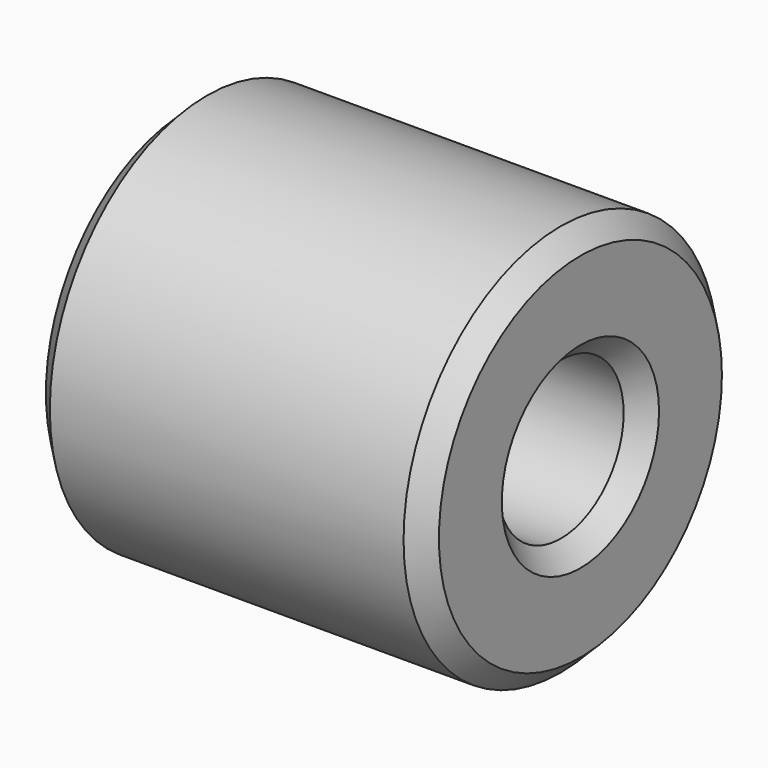
from build123d import *

# Parameters (mm, degrees)
SKETCH112_R     = 4
SKETCH112_R_2   = 1.6
PAD058_DEPTH    = 8
CHAMFER039_SIZE = 1.8
CHAMFER040_SIZE = 0.4


with BuildPart() as part:
    # Sketch112 → Pad058 (new body)
    with BuildSketch(Plane.YZ):
        Circle(SKETCH112_R)
        Circle(SKETCH112_R_2, mode=Mode.SUBTRACT)
    extrude(amount=PAD058_DEPTH)

    # Chamfer039
    chamfer039_edges = [part.edges().sort_by_distance(p)[0] for p in [
        (0, -1.6, 0),
    ]]
    chamfer(chamfer039_edges, length=CHAMFER039_SIZE)

    # Chamfer040
    chamfer040_edges = [part.edges().sort_by_distance(p)[0] for p in [
        (0, -4, 0),
        (8, -4, 0),
        (8, -1.6, 0),
    ]]
    chamfer(chamfer040_edges, length=CHAMFER040_SIZE)


with BuildPart() as part_1:
    # Body045 placement: moved
    add(part.part.moved(Location((-38, -48, 34.5))))


solid = part_1.part
